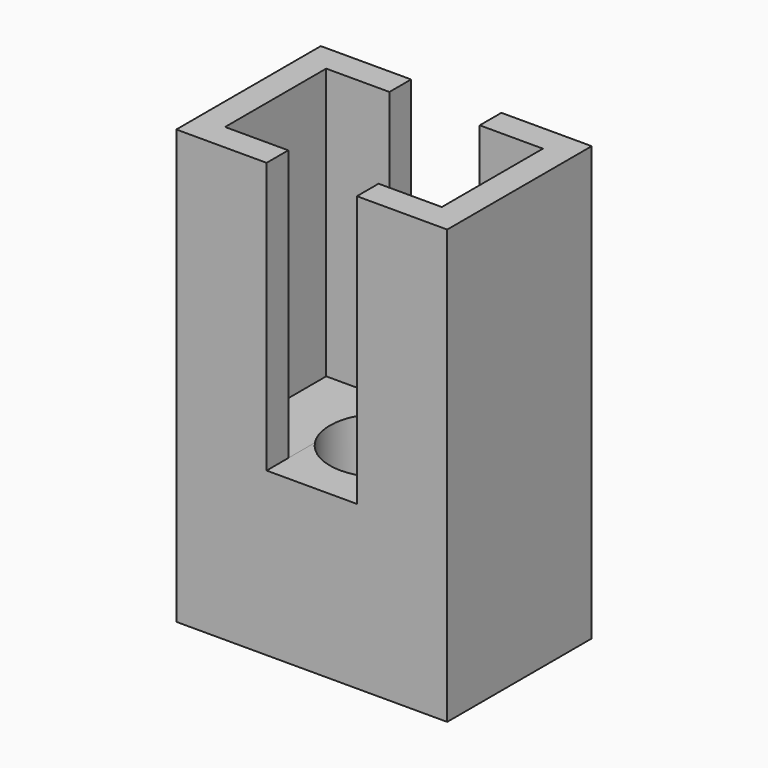
from build123d import *

# Parameters (mm, degrees)
SKETCH_W        = 30
SKETCH_H        = 20
PAD_DEPTH       = 48
SKETCH001_W     = 24
SKETCH001_H     = 14
POCKET_DEPTH    = 30
SKETCH002_R     = 2
POCKET001_DEPTH = 18.001
SKETCH003_R     = 6
POCKET002_DEPTH = 14
SKETCH004_W     = 10
SKETCH004_H     = 31.196079
POCKET003_DEPTH = 20.001


with BuildPart() as part:
    # Sketch → Pad (new body)
    with BuildSketch(Plane.XY):
        Rectangle(SKETCH_W, SKETCH_H)
    extrude(amount=PAD_DEPTH)

    # Sketch001 (on Face6 of Pad) → Pocket (cut)
    with BuildSketch(Plane.XY.offset(48)):
        Rectangle(SKETCH001_W, SKETCH001_H)
    extrude(amount=-POCKET_DEPTH, mode=Mode.SUBTRACT)

    # Sketch002 (on Face11 of Pocket) → Pocket001 (cut, through all)
    with BuildSketch(Plane.XY.offset(18)):
        Circle(SKETCH002_R)
    extrude(amount=-POCKET001_DEPTH, mode=Mode.SUBTRACT)

    # Sketch003 (on Face12 of Pocket001) → Pocket002 (cut)
    with BuildSketch(Plane.XY.offset(18)):
        Circle(SKETCH003_R)
    extrude(amount=-POCKET002_DEPTH, mode=Mode.SUBTRACT)

    # Sketch004 (on Face6 of Pocket002) → Pocket003 (cut, through all)
    with BuildSketch(Plane.XZ.offset(10)):
        with Locations((0, 33.598039)):
            Rectangle(SKETCH004_W, SKETCH004_H)
    extrude(amount=-POCKET003_DEPTH, mode=Mode.SUBTRACT)


solid = part.part
